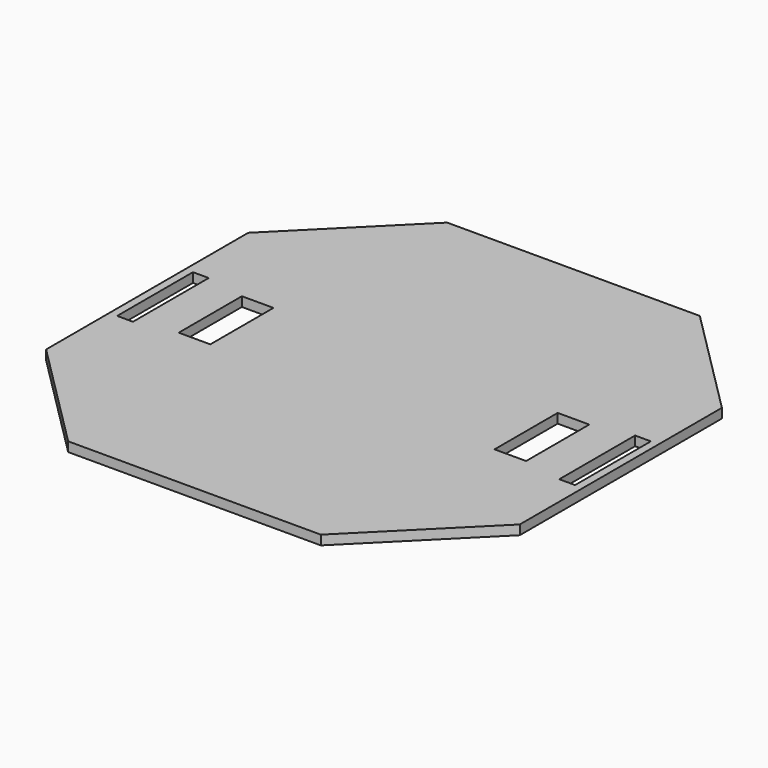
from build123d import *

# Parameters (mm, degrees)
F1_DEPTH = 6


with BuildPart() as f1:
    # F0 (on Top) → F1 (new body)
    with BuildSketch(Plane.XY):
        Polygon((80, 150), (0, 150), (0, 0), (90, 0), (90, 25), (110, 25), (110, 0), (135, 0), (135, 30), (145, 30), (145, 0), (150, 0), (150, 80), align=None)
        Polygon((0, 150), (-80, 150), (-150, 80), (-150, 0), (-145, 0), (-145, 30), (-135, 30), (-135, 0), (-110, 0), (-110, 25), (-90, 25), (-90, 0), (0, 0), align=None)
        Polygon((-145, 0), (-150, 0), (-150, -80), (-80, -150), (0, -150), (0, 0), (-90, 0), (-90, -25), (-110, -25), (-110, 0), (-135, 0), (-135, -30), (-145, -30), align=None)
        Polygon((90, 0), (0, 0), (0, -150), (80, -150), (150, -80), (150, 0), (145, 0), (145, -30), (135, -30), (135, 0), (110, 0), (110, -25), (90, -25), align=None)
    extrude(amount=F1_DEPTH)


solid = f1.part
